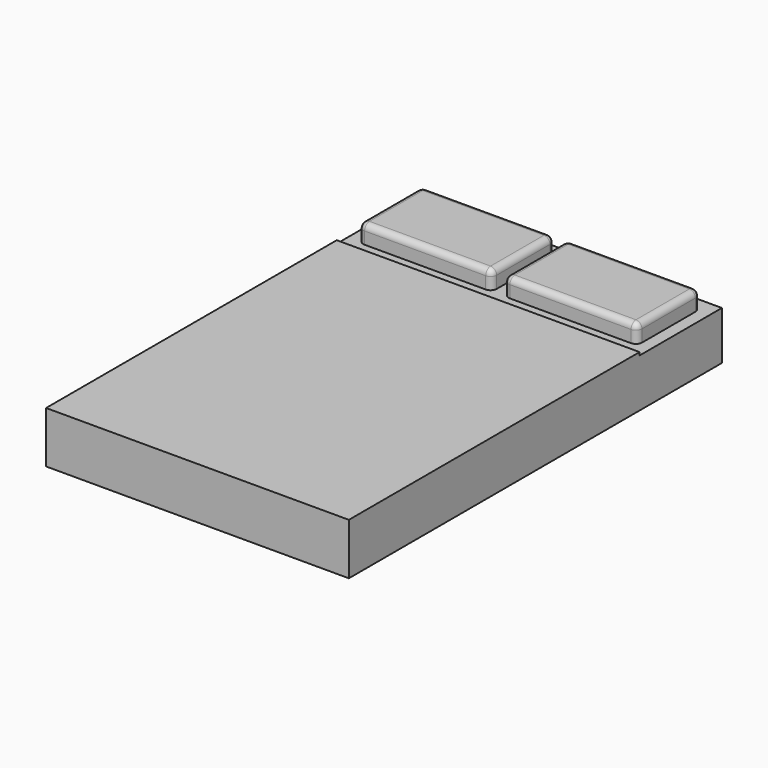
from build123d import *

# Parameters (mm, degrees)
F0_W     = 1270
F0_H     = 1955.8
F1_DEPTH = 203.2
F2_W     = 1270
F2_H     = 1524
F3_DEPTH = 12.7
F4_W     = 558.8
F4_H     = 330.2
F5_DEPTH = 76.2
F6_R     = 25.4
F7_R     = 25.4


with BuildPart() as f1:
    # F0 (on Top) → F1 (new body)
    with BuildSketch(Plane.XY):
        with Locations((-7.088182494, 100.0628365508)):
            Rectangle(F0_W, F0_H)
    extrude(amount=F1_DEPTH)

    # F2 (on face) → F3 (join)
    with BuildSketch(Plane.XY.offset(203.2)):
        with Locations((-7.088182494, -115.8371634492)):
            Rectangle(F2_W, F2_H)
    extrude(amount=F3_DEPTH)

    # F4 (on face) → F5 (join)
    with BuildSketch(Plane.XY.offset(203.2)):
        with Locations((-311.888182494, 862.0628365508)):
            Rectangle(F4_W, F4_H)
        with Locations((297.711817506, 862.0628365508)):
            Rectangle(F4_W, F4_H)
    extrude(amount=F5_DEPTH)

    # F6
    f6_edges = [f1.edges().sort_by_distance(p)[0] for p in [
        (-32.488182, 1027.162837, 241.3),
        (-32.488182, 696.962837, 241.3),
        (18.311818, 696.962837, 241.3),
        (18.311818, 1027.162837, 241.3),
        (577.111818, 696.962837, 241.3),
        (577.111818, 1027.162837, 241.3),
        (-591.288182, 1027.162837, 241.3),
        (-591.288182, 696.962837, 241.3),
    ]]
    fillet(f6_edges, radius=F6_R)

    # F7
    f7_edges = [f1.edges().sort_by_distance(p)[0] for p in [
        (-311.888182, 1027.162837, 279.4),
        (-32.488182, 862.062837, 279.4),
        (-39.92767, 1019.723349, 279.4),
        (-39.92767, 704.402324, 279.4),
        (-311.888182, 696.962837, 279.4),
        (-583.848695, 704.402324, 279.4),
        (-591.288182, 862.062837, 279.4),
        (-583.848695, 1019.723349, 279.4),
        (18.311818, 862.062837, 279.4),
        (25.751305, 1019.723349, 279.4),
        (297.711818, 1027.162837, 279.4),
        (569.67233, 1019.723349, 279.4),
        (577.111818, 862.062837, 279.4),
        (569.67233, 704.402324, 279.4),
        (297.711818, 696.962837, 279.4),
        (25.751305, 704.402324, 279.4),
    ]]
    fillet(f7_edges, radius=F7_R)


solid = f1.part
